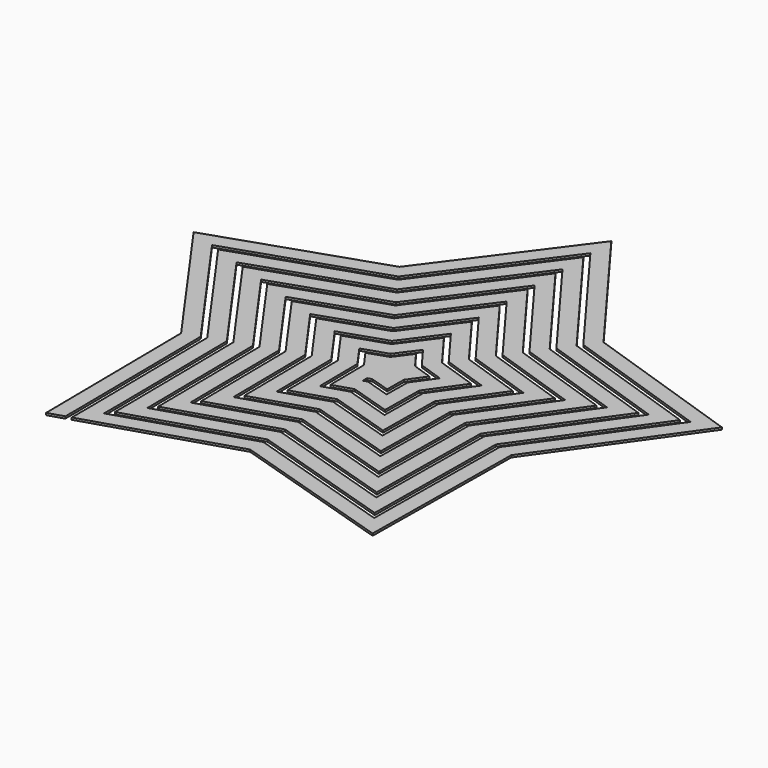
from build123d import *

# Parameters (mm, degrees)
F1_DEPTH = 0.4


with BuildPart() as f1:
    # F0 (on Top) → F1 (new body)
    with BuildSketch(Plane.XY):
        Polygon((14.694631, 20.225425), (0, 40), (-14.694631, 20.225425), (-38.042261, 12.36068), (-23.776413, -7.725425), (-23.51141, -32.36068), (-23.51141, -36.552122), (0, -29.191442), (27.453279, -37.786197), (27.762712, -9.020652), (44.420338, 14.433043), (17.158299, 23.616373), (0, 46.706308), (-17.158299, 23.616373), (-44.420338, 14.433043), (-27.762712, -9.020652), (-27.453279, -37.786197), (-27.453279, -41.977639), (0, -33.382885), (31.395148, -43.211714), (31.74901, -10.315879), (50.798416, 16.505406), (19.621967, 27.007321), (0, 53.412616), (-19.621967, 27.007321), (-50.798416, 16.505406), (-31.74901, -10.315879), (-31.395148, -43.211714), (-28.438746, -42.286158), (-28.438746, -39.142576), (-28.759286, -9.344459), (-46.014858, 14.951134), (-17.774216, 24.46411), (0, 48.382885), (17.774216, 24.46411), (46.014858, 14.951134), (28.759286, -9.344459), (28.438746, -39.142576), (0, -30.239303), (-24.496877, -37.908501), (-24.496877, -33.717059), (-24.772988, -8.049232), (-39.63678, 12.878771), (-15.310548, 21.073162), (0, 41.676577), (15.310548, 21.073162), (39.63678, 12.878771), (24.772988, -8.049232), (24.496877, -33.717059), (0, -26.047861), (-20.510072, -32.468916), (-20.555008, -28.291542), (-20.786689, -6.754005), (-33.258702, 10.806407), (-12.84688, 17.682214), (0, 34.970269), (12.84688, 17.682214), (33.258702, 10.806407), (20.786689, -6.754005), (20.555008, -28.291542), (0, -21.856418), (-16.568203, -27.043399), (-16.61314, -22.866025), (-16.80039, -5.458778), (-26.880625, 8.734044), (-10.383212, 14.291266), (0, 28.263961), (10.383212, 14.291266), (26.880625, 8.734044), (16.80039, -5.458778), (16.61314, -22.866025), (0, -17.664976), (-12.626335, -21.617882), (-12.671271, -17.440508), (-12.814092, -4.163551), (-20.502547, 6.661681), (-7.919544, 10.900318), (0, 21.557654), (7.919544, 10.900318), (20.502547, 6.661681), (12.814092, -4.163551), (12.671271, -17.440508), (0, -13.473533), (-8.684466, -16.192365), (-8.729402, -12.014991), (-8.827793, -2.868324), (-14.124469, 4.589318), (-5.455876, 7.509369), (0, 14.851346), (5.455876, 7.509369), (14.124469, 4.589318), (8.827793, -2.868324), (8.729402, -12.014991), (0, -9.282091), (-4.742597, -10.766848), (-4.787533, -6.589474), (-4.841495, -1.573097), (-7.746391, 2.516955), (-2.992208, 4.118421), (0, 8.145038), (2.992208, 4.118421), (7.746391, 2.516955), (4.841495, -1.573097), (4.787533, -6.589474), (0, -5.090649), (-0.800728, -5.341331), (-0.811962, -4.296988), (0, -4.042788), (3.802066, -5.233095), (3.84492, -1.24929), (6.151872, 1.998864), (2.376291, 3.270684), (0, 6.468461), (-2.376291, 3.270684), (-6.151872, 1.998864), (-3.84492, -1.24929), (-3.802066, -5.233095), (-3.75713, -9.410469), (0, -8.23423), (7.743935, -10.658612), (7.831219, -2.544517), (12.52995, 4.071227), (4.839959, 6.661632), (0, 13.174769), (-4.839959, 6.661632), (-12.52995, 4.071227), (-7.831219, -2.544517), (-7.743935, -10.658612), (-7.698999, -14.835986), (0, -12.425673), (11.685804, -16.084129), (11.817517, -3.839744), (18.908027, 6.143591), (7.303627, 10.05258), (0, 19.881077), (-7.303627, 10.05258), (-18.908027, 6.143591), (-11.817517, -3.839744), (-11.685804, -16.084129), (-11.640867, -20.261503), (0, -16.617115), (15.627672, -21.509646), (15.803816, -5.134971), (25.286105, 8.215954), (9.767295, 13.443529), (0, 26.587384), (-9.767295, 13.443529), (-25.286105, 8.215954), (-15.803816, -5.134971), (-15.627672, -21.509646), (-15.582736, -25.68702), (0, -20.808558), (19.569541, -26.935163), (19.790114, -6.430198), (31.664183, 10.288317), (12.230963, 16.834477), (0, 33.293692), (-12.230963, 16.834477), (-31.664183, 10.288317), (-19.790114, -6.430198), (-19.569541, -26.935163), (-19.524605, -31.112537), (0, -25), (23.51141, -32.36068), (23.776413, -7.725425), (38.042261, 12.36068), align=None)
    extrude(amount=F1_DEPTH)


solid = f1.part
